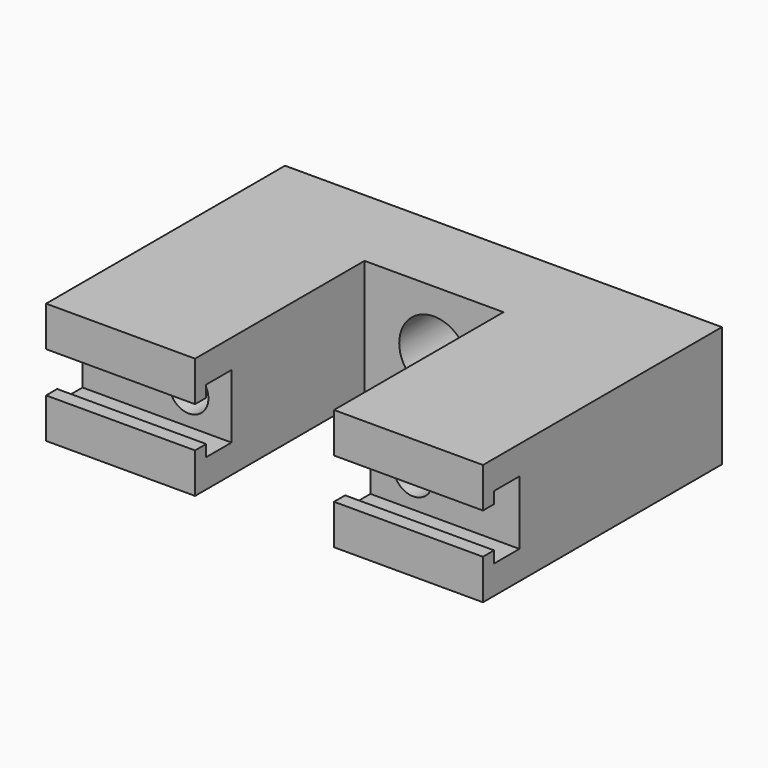
from build123d import *

# Parameters (mm, degrees)
F1_DEPTH = 11.049
F3_DEPTH = 39.9425
F4_R     = 3.175
F4_R_2   = 1.79705
F5_DEPTH = 27.307296
F4_W     = 5.678279
F4_H     = 5.299044
F6_DEPTH = 2.54


with BuildPart() as f1:
    # F0 (on Top) → F1 (new body)
    with BuildSketch(Plane.XY):
        Polygon((-17.543431, 48.29058), (-17.543431, 22.254284), (-3.922681, 22.254284), (-3.922681, 26.382432), (-3.922681, 41.622432), (8.777319, 41.622432), (8.777319, 26.382432), (8.777319, 22.254284), (22.398069, 22.254284), (22.398069, 48.29058), (22.398069, 49.56058), (-17.543431, 49.56058), align=None)
    extrude(amount=F1_DEPTH)

    # F2 (on face) → F3 (cut, through all)
    with BuildSketch(Plane(origin=(-17.543431, 0, 0), x_dir=(0, -1, 0), z_dir=(-1, 0, 0))):
        Polygon((-23.524284, 2.794), (-23.524284, 3.66395), (-22.254284, 3.66395), (-22.254284, 7.38505), (-23.524284, 7.38505), (-23.524284, 8.255), (-23.524284, 8.4455), (-26.419884, 8.4455), (-26.419884, 8.255), (-26.419884, 2.794), (-26.419884, 2.6035), (-23.524284, 2.6035), align=None)
    extrude(amount=-F3_DEPTH, mode=Mode.SUBTRACT)

    # F4 (on face) → F5 (cut, through all)
    with BuildSketch(Plane(origin=(0, 49.56058, 0), x_dir=(-1, 0, 0), z_dir=(0, 1, 0))):
        with Locations((-2.423196, 5.467734)):
            Circle(F4_R)
        with Locations((-12.678446, 5.467734)):
            Circle(F4_R_2)
        with Locations((7.832054, 5.467734)):
            Circle(F4_R_2)
    extrude(amount=-F5_DEPTH, mode=Mode.SUBTRACT)

    # F4 (on face) → F6 (cut)
    with BuildSketch(Plane(origin=(0, 49.56058, 0), x_dir=(-1, 0, 0), z_dir=(0, 1, 0))):
        with Locations((-12.678445, 5.467734)):
            Rectangle(F4_W, F4_H)
        with Locations((-12.678446, 5.467734)):
            Circle(F4_R_2, mode=Mode.SUBTRACT)
        with Locations((7.832054, 5.467734)):
            Rectangle(F4_W, F4_H)
        with Locations((7.832054, 5.467734)):
            Circle(F4_R_2, mode=Mode.SUBTRACT)
    extrude(amount=-F6_DEPTH, mode=Mode.SUBTRACT)


solid = f1.part
